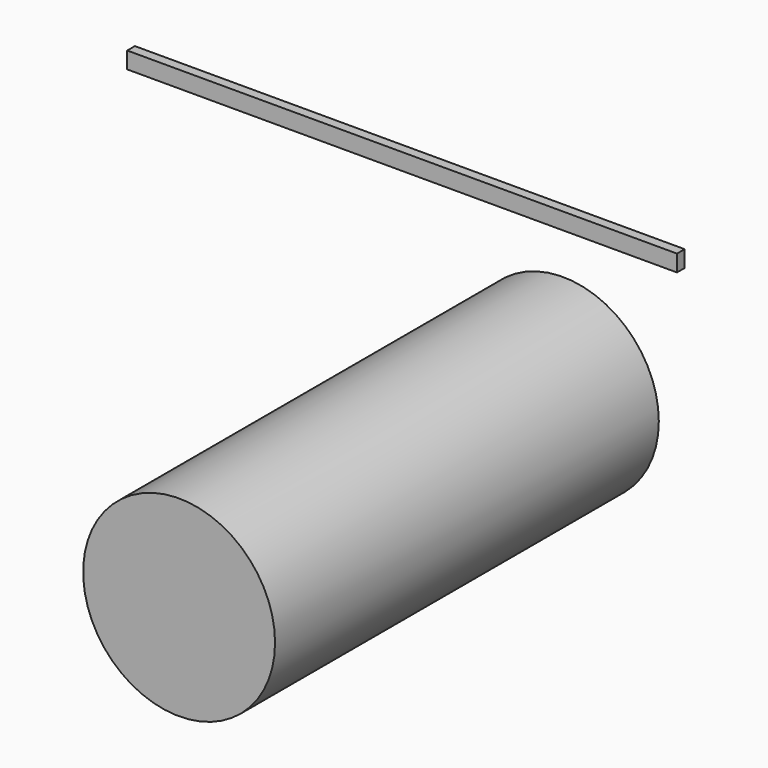
from build123d import *

# Parameters (mm, degrees)
F0_W     = 145.545721
F0_H     = 4.402627
F1_DEPTH = 2.54
F0_R     = 25.4
F2_DEPTH = 127


with BuildPart() as f1:
    # F0 (on Front) → F1 (new body)
    with BuildSketch(Plane.XZ):
        with Locations((-40.53008, 40.141613)):
            Rectangle(F0_W, F0_H)
    extrude(amount=F1_DEPTH)


with BuildPart() as f2:
    # F0 (on Front) → F2 (new body)
    with BuildSketch(Plane.XZ):
        Circle(F0_R)
    extrude(amount=F2_DEPTH)


solid = Compound([f1.part, f2.part])
